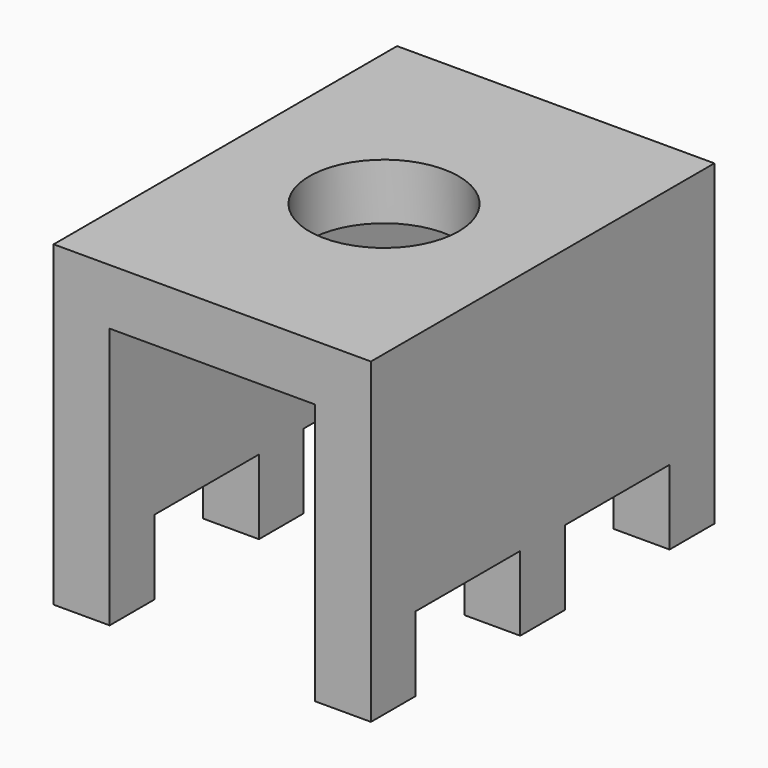
from build123d import *

# Parameters (mm, degrees)
F0_W     = 1.5
F0_H     = 1.5
F1_DEPTH = 2
F2_W     = 1.5
F2_H     = 11.5
F3_DEPTH = 5
F4_W     = 8.5
F4_H     = 11.5
F5_DEPTH = 1.5
F6_R     = 2
F7_DEPTH = 25


with BuildPart() as f1:
    # F0 (on Top) → F1 (new body)
    with BuildSketch(Plane.XY):
        with Locations((8.05449, 7.874021)):
            Rectangle(F0_W, F0_H)
        with Locations((8.05449, 12.874021)):
            Rectangle(F0_W, F0_H)
        with Locations((8.05449, 17.874021)):
            Rectangle(F0_W, F0_H)
        with Locations((15.05449, 7.874021)):
            Rectangle(F0_W, F0_H)
        with Locations((15.05449, 12.874021)):
            Rectangle(F0_W, F0_H)
        with Locations((15.05449, 17.874021)):
            Rectangle(F0_W, F0_H)
    extrude(amount=F1_DEPTH)

    # F2 (on face) → F3 (join)
    with BuildSketch(Plane.XY.offset(2)):
        with Locations((8.05449, 12.874021)):
            Rectangle(F2_W, F2_H)
        with Locations((15.05449, 12.874021)):
            Rectangle(F2_W, F2_H)
    extrude(amount=F3_DEPTH)

    # F4 (on face) → F5 (join)
    with BuildSketch(Plane.XY.offset(7)):
        with Locations((11.55449, 12.874021)):
            Rectangle(F4_W, F4_H)
    extrude(amount=F5_DEPTH)

    # F6 (on face) → F7 (cut)
    with BuildSketch(Plane.XY.offset(8.5)):
        with Locations((11.55449, 12.874021)):
            Circle(F6_R)
    extrude(amount=-F7_DEPTH, mode=Mode.SUBTRACT)


solid = f1.part
